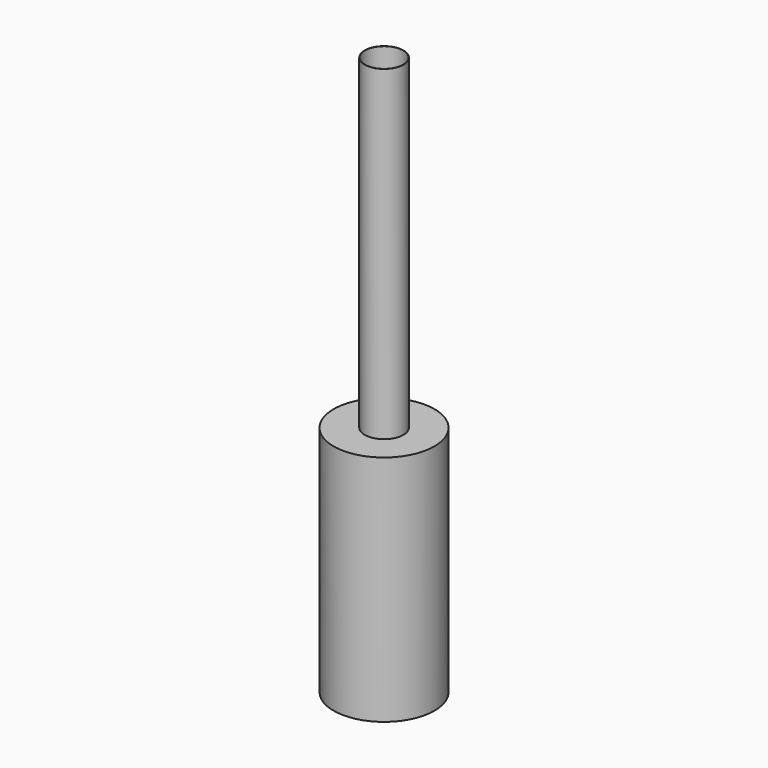
from build123d import *

# Parameters (mm, degrees)
F0_R     = 660.4
F1_DEPTH = 3.175
F2_R     = 660.4
F2_R_2   = 657.225
F3_DEPTH = 3041.65
F4_R     = 660.4
F4_R_2   = 657.225
F5_DEPTH = 3.175
F6_R     = 250.825
F7_DEPTH = 3.175
F6_R_2   = 254
F8_DEPTH = 4267.2


with BuildPart() as f1:
    # F0 (on Top) → F1 (new body)
    with BuildSketch(Plane.XY):
        Circle(F0_R)
    extrude(amount=F1_DEPTH)

    # F2 (on face) → F3 (join)
    with BuildSketch(Plane.XY.offset(3.175)):
        Circle(F2_R)
        Circle(F2_R_2, mode=Mode.SUBTRACT)
    extrude(amount=F3_DEPTH)

    # F4 (on face) → F5 (join)
    with BuildSketch(Plane.XY.offset(3044.825)):
        Circle(F4_R)
        Circle(F4_R_2, mode=Mode.SUBTRACT)
        Circle(F4_R_2)
    extrude(amount=F5_DEPTH)

    # F6 (on face) → F7 (cut, through all)
    with BuildSketch(Plane.XY.offset(3048)):
        Circle(F6_R)
    extrude(amount=-F7_DEPTH, mode=Mode.SUBTRACT)


with BuildPart() as f8:
    # F6 (on face) → F8 (new body)
    with BuildSketch(Plane.XY.offset(3048)):
        Circle(F6_R_2)
        Circle(F6_R, mode=Mode.SUBTRACT)
    extrude(amount=F8_DEPTH)


solid = Compound([f1.part, f8.part])
